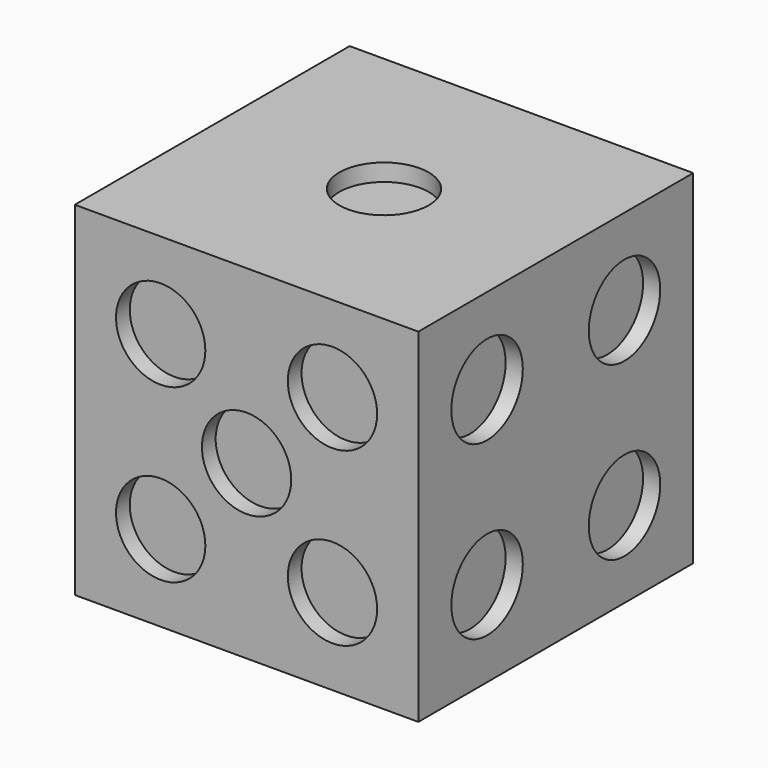
from build123d import *

# Parameters (mm, degrees)
F0_W      = 20
F0_H      = 20
F1_DEPTH  = 20
F2_R      = 2.6
F3_DEPTH  = 1
F4_R      = 2.6
F5_DEPTH  = 1
F6_R      = 2.6
F7_DEPTH  = 1
F8_R      = 2.6
F9_DEPTH  = 1
F10_R     = 2.6
F11_DEPTH = 1


with BuildPart() as f1:
    # F0 (on Front) → F1 (new body)
    with BuildSketch(Plane.XZ):
        with Locations((-10, 10)):
            Rectangle(F0_W, F0_H)
    extrude(amount=F1_DEPTH)

    # F2 (on face) → F3 (cut)
    with BuildSketch(Plane.XZ.offset(20)):
        with Locations((-15, 15)):
            Circle(F2_R)
        with Locations((-10, 10)):
            Circle(F2_R)
        with Locations((-15, 5)):
            Circle(F2_R)
        with Locations((-5, 15)):
            Circle(F2_R)
        with Locations((-5, 5)):
            Circle(F2_R)
    extrude(amount=-F3_DEPTH, mode=Mode.SUBTRACT)

    # F4 (on face) → F5 (cut)
    with BuildSketch(Plane(origin=(0, 0, 0), x_dir=(-1, 0, 0), z_dir=(0, 1, 0))):
        with Locations((15, 15)):
            Circle(F4_R)
        with Locations((5, 5)):
            Circle(F4_R)
    extrude(amount=-F5_DEPTH, mode=Mode.SUBTRACT)

    # F6 (on face) → F7 (cut)
    with BuildSketch(Plane.XY.offset(20)):
        with Locations((-10, -10)):
            Circle(F6_R)
    extrude(amount=-F7_DEPTH, mode=Mode.SUBTRACT)

    # F8 (on face) → F9 (cut)
    with BuildSketch(Plane(origin=(-20, 0, 0), x_dir=(0, -1, 0), z_dir=(-1, 0, 0))):
        with Locations((10, 10)):
            Circle(F8_R)
        with Locations((15, 15)):
            Circle(F8_R)
        with Locations((5, 5)):
            Circle(F8_R)
    extrude(amount=-F9_DEPTH, mode=Mode.SUBTRACT)

    # F10 (on face) → F11 (cut)
    with BuildSketch(Plane.YZ):
        with Locations((-15, 15)):
            Circle(F10_R)
        with Locations((-15, 5)):
            Circle(F10_R)
        with Locations((-5, 15)):
            Circle(F10_R)
        with Locations((-5, 5)):
            Circle(F10_R)
    extrude(amount=-F11_DEPTH, mode=Mode.SUBTRACT)


solid = f1.part
